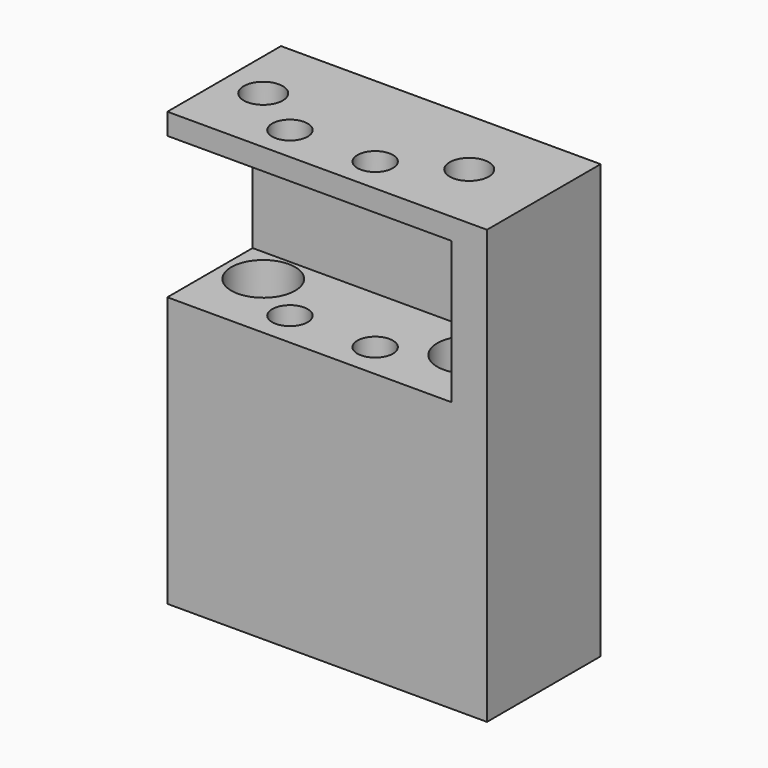
from build123d import *

# Parameters (mm, degrees)
F0_W     = 40
F0_H     = 15
F0_R     = 2.5
F0_R_2   = 4.5
F1_DEPTH = 38
F0_H_2   = 5
F2_DEPTH = 61
F3_START = 58
F3_DEPTH = 3
F0_R_3   = 2.75
F4_DEPTH = 20
F5_START = 58
F5_DEPTH = 3


with BuildPart() as f1:
    # F0 (on Top) → F1 (new body)
    with BuildSketch(Plane.XY):
        with Locations((0, -2.5)):
            Rectangle(F0_W, F0_H)
        with Locations((-6.7427190952, -5)):
            Circle(F0_R, mode=Mode.SUBTRACT)
        with Locations((5.2572809048, -5)):
            Circle(F0_R, mode=Mode.SUBTRACT)
        with Locations((-14.5, 0)):
            Circle(F0_R_2, mode=Mode.SUBTRACT)
        with Locations((14.5, 0)):
            Circle(F0_R_2, mode=Mode.SUBTRACT)
    extrude(amount=F1_DEPTH)

    # F0 (on Top) → F2 (join)
    with BuildSketch(Plane.XY):
        Polygon((25, 10), (20, 10), (20, 5), (20, -10), (25, -10), align=None)
        with Locations((0, 7.5)):
            Rectangle(F0_W, F0_H_2)
    extrude(amount=F2_DEPTH)

    # F0 (on Top) → F3 (join)
    with BuildSketch(Plane.XY.offset(F3_START)):
        with Locations((0, -2.5)):
            Rectangle(F0_W, F0_H)
        with Locations((-6.7427190952, -5)):
            Circle(F0_R, mode=Mode.SUBTRACT)
        with Locations((5.2572809048, -5)):
            Circle(F0_R, mode=Mode.SUBTRACT)
        with Locations((-14.5, 0)):
            Circle(F0_R_2, mode=Mode.SUBTRACT)
        with Locations((14.5, 0)):
            Circle(F0_R_2, mode=Mode.SUBTRACT)
    extrude(amount=F3_DEPTH)

    # F0 (on Top) → F4 (join)
    with BuildSketch(Plane.XY):
        with Locations((-14.5, 0)):
            Circle(F0_R_2)
        with Locations((-14.5, 0)):
            Circle(F0_R_3, mode=Mode.SUBTRACT)
        with Locations((14.5, 0)):
            Circle(F0_R_2)
        with Locations((14.5, 0)):
            Circle(F0_R_3, mode=Mode.SUBTRACT)
    extrude(amount=F4_DEPTH)

    # F0 (on Top) → F5 (join)
    with BuildSketch(Plane.XY.offset(F5_START)):
        with Locations((-14.5, 0)):
            Circle(F0_R_2)
        with Locations((-14.5, 0)):
            Circle(F0_R_3, mode=Mode.SUBTRACT)
        with Locations((14.5, 0)):
            Circle(F0_R_2)
        with Locations((14.5, 0)):
            Circle(F0_R_3, mode=Mode.SUBTRACT)
    extrude(amount=F5_DEPTH)


solid = f1.part
